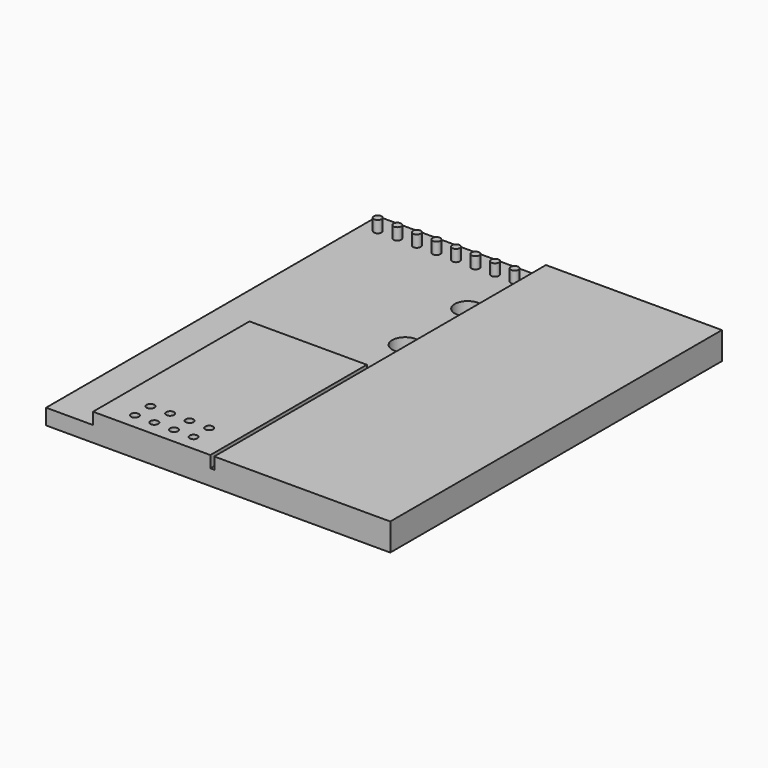
from build123d import *

# Parameters (mm, degrees)
SKETCH_W      = 44
SKETCH_H      = 53
SKETCH_R      = 1.65
SKETCH_R_2    = 0.5
PAD_DEPTH     = 2
SKETCH001_R   = 0.5
SKETCH001_W   = 15
SKETCH001_H   = 25
SKETCH001_W_2 = 22.5
SKETCH001_H_2 = 53
PAD001_DEPTH  = 2


with BuildPart() as part:
    # Sketch → Pad (new body)
    with BuildSketch(Plane.XY):
        with Locations((16, 26.5)):
            Rectangle(SKETCH_W, SKETCH_H)
        with Locations((13.5, 43)):
            Circle(SKETCH_R, mode=Mode.SUBTRACT)
        with Locations((13.5, 33)):
            Circle(SKETCH_R, mode=Mode.SUBTRACT)
        with Locations((1, 50.5)):
            Circle(SKETCH_R_2, mode=Mode.SUBTRACT)
        with Locations((3.5, 50.5)):
            Circle(SKETCH_R_2, mode=Mode.SUBTRACT)
        with Locations((6, 50.5)):
            Circle(SKETCH_R_2, mode=Mode.SUBTRACT)
        with Locations((8.5, 50.5)):
            Circle(SKETCH_R_2, mode=Mode.SUBTRACT)
        with Locations((11, 50.5)):
            Circle(SKETCH_R_2, mode=Mode.SUBTRACT)
        with Locations((13.5, 50.5)):
            Circle(SKETCH_R_2, mode=Mode.SUBTRACT)
        with Locations((-4, 50.5)):
            Circle(SKETCH_R_2, mode=Mode.SUBTRACT)
        with Locations((-1.5, 50.5)):
            Circle(SKETCH_R_2, mode=Mode.SUBTRACT)
        with Locations((8.75, 4.5)):
            Circle(SKETCH_R_2, mode=Mode.SUBTRACT)
        with Locations((11.25, 4.5)):
            Circle(SKETCH_R_2, mode=Mode.SUBTRACT)
        with Locations((3.75, 4.5)):
            Circle(SKETCH_R_2, mode=Mode.SUBTRACT)
        with Locations((6.25, 4.5)):
            Circle(SKETCH_R_2, mode=Mode.SUBTRACT)
        with Locations((8.75, 2)):
            Circle(SKETCH_R_2, mode=Mode.SUBTRACT)
        with Locations((11.25, 2)):
            Circle(SKETCH_R_2, mode=Mode.SUBTRACT)
        with Locations((3.75, 2)):
            Circle(SKETCH_R_2, mode=Mode.SUBTRACT)
        with Locations((6.25, 2)):
            Circle(SKETCH_R_2, mode=Mode.SUBTRACT)
    extrude(amount=PAD_DEPTH)

    # Sketch001 → Pad001 (join)
    with BuildSketch(Plane.XY.offset(1.5)):
        with Locations((1, 50.5)):
            Circle(SKETCH001_R)
        with Locations((3.5, 50.5)):
            Circle(SKETCH001_R)
        with Locations((6, 50.5)):
            Circle(SKETCH001_R)
        with Locations((8.5, 50.5)):
            Circle(SKETCH001_R)
        with Locations((11, 50.5)):
            Circle(SKETCH001_R)
        with Locations((13.5, 50.5)):
            Circle(SKETCH001_R)
        with Locations((-4, 50.5)):
            Circle(SKETCH001_R)
        with Locations((-1.5, 50.5)):
            Circle(SKETCH001_R)
        with Locations((7.5, 12.5)):
            Rectangle(SKETCH001_W, SKETCH001_H)
        with Locations((8.75, 4.5)):
            Circle(SKETCH001_R, mode=Mode.SUBTRACT)
        with Locations((11.25, 4.5)):
            Circle(SKETCH001_R, mode=Mode.SUBTRACT)
        with Locations((3.75, 4.5)):
            Circle(SKETCH001_R, mode=Mode.SUBTRACT)
        with Locations((6.25, 4.5)):
            Circle(SKETCH001_R, mode=Mode.SUBTRACT)
        with Locations((8.75, 2)):
            Circle(SKETCH001_R, mode=Mode.SUBTRACT)
        with Locations((11.25, 2)):
            Circle(SKETCH001_R, mode=Mode.SUBTRACT)
        with Locations((3.75, 2)):
            Circle(SKETCH001_R, mode=Mode.SUBTRACT)
        with Locations((6.25, 2)):
            Circle(SKETCH001_R, mode=Mode.SUBTRACT)
        with Locations((26.75, 26.5)):
            Rectangle(SKETCH001_W_2, SKETCH001_H_2)
    extrude(amount=PAD001_DEPTH)


solid = part.part
